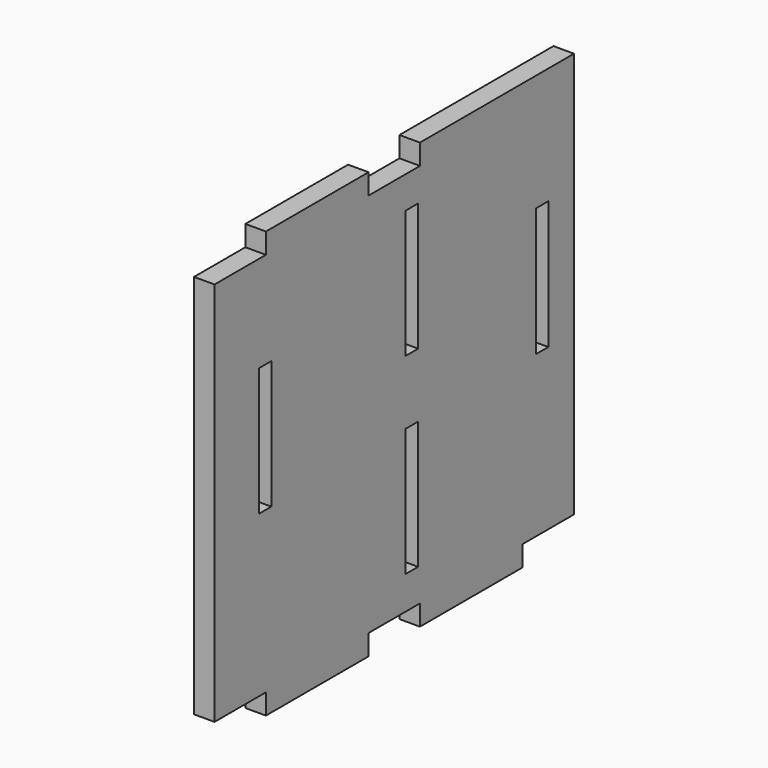
from build123d import *

# Parameters (mm, degrees)
F1_DEPTH = 4.064
F2_W     = 3.0734
F2_H     = 25.3600694679
F2_H_2   = 25.3019425595
F2_H_3   = 25.4
F3_DEPTH = 25.4


with BuildPart() as f1:
    # F0 (on Right) → F1 (new body)
    with BuildSketch(Plane.YZ):
        Polygon((50.8, 1.163312234), (50.8, 39.263312234), (50.8, 43.327312234), (38.1, 43.327312234), (12.7, 43.327312234), (12.7, 39.263312234), (0, 39.263312234), (0, 43.327312234), (-25.4, 43.327312234), (-25.4, 39.263312234), (-38.1, 39.263312234), (-38.1, 1.163312234), align=None)
        Polygon((50.8, -36.936687766), (50.8, 1.163312234), (-38.1, 1.163312234), (-38.1, -36.936687766), (-25.4, -36.936687766), (-25.4, -41.000687766), (0, -41.000687766), (0, -36.936687766), (12.7, -36.936687766), (12.7, -41.000687766), (38.1, -41.000687766), (38.1, -36.936687766), align=None)
    extrude(amount=F1_DEPTH)

    # F2 (on face) → F3 (cut)
    with BuildSketch(Plane.YZ.offset(4.064)):
        with Locations((-25.5905, 7.5332775)):
            Rectangle(F2_W, F2_H)
        with Locations((10.7189016, 20.2623409542)):
            Rectangle(F2_W, F2_H_2)
        with Locations((10.7189016, -17.7396016053)):
            Rectangle(F2_W, F2_H_2)
        with Locations((42.9133, 7.513312234)):
            Rectangle(F2_W, F2_H_3)
    extrude(amount=-F3_DEPTH, mode=Mode.SUBTRACT)


solid = f1.part
